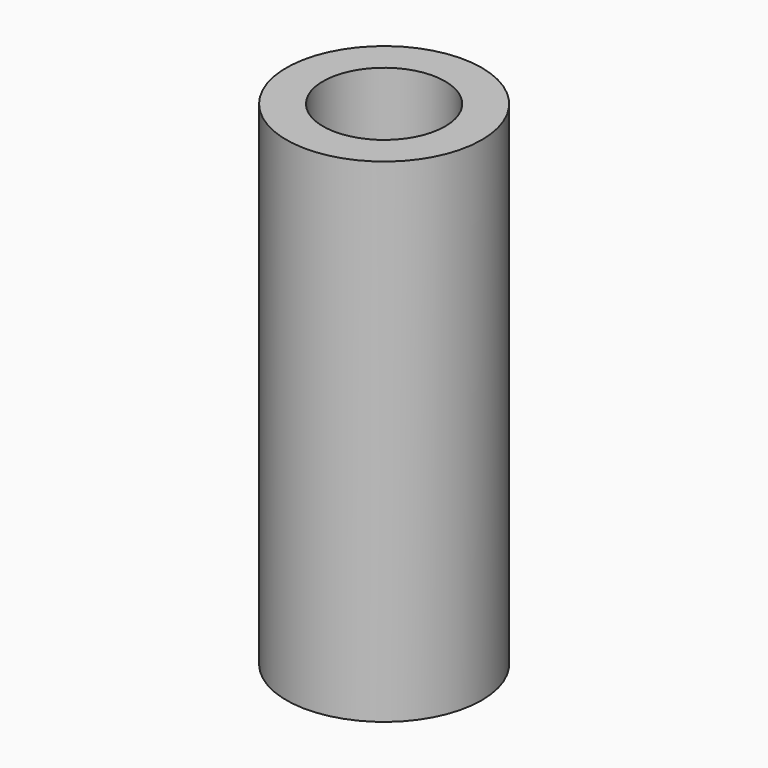
from build123d import *

# Parameters (mm, degrees)
F2_R   = 12.7
F2_R_2 = 7.9375


with BuildPart() as f3:
    # F3: sweep along a path in F0
    with BuildLine(Plane.XZ) as f3_path:
        Line((0, 64.1338602412), (0, 0))
    # F2 (on plane+point) → F3 (sweep)
    with BuildSketch(Plane.XY.offset(64.1338602412)):
        Circle(F2_R)
        Circle(F2_R_2, mode=Mode.SUBTRACT)
    sweep(path=f3_path.line)


solid = f3.part
